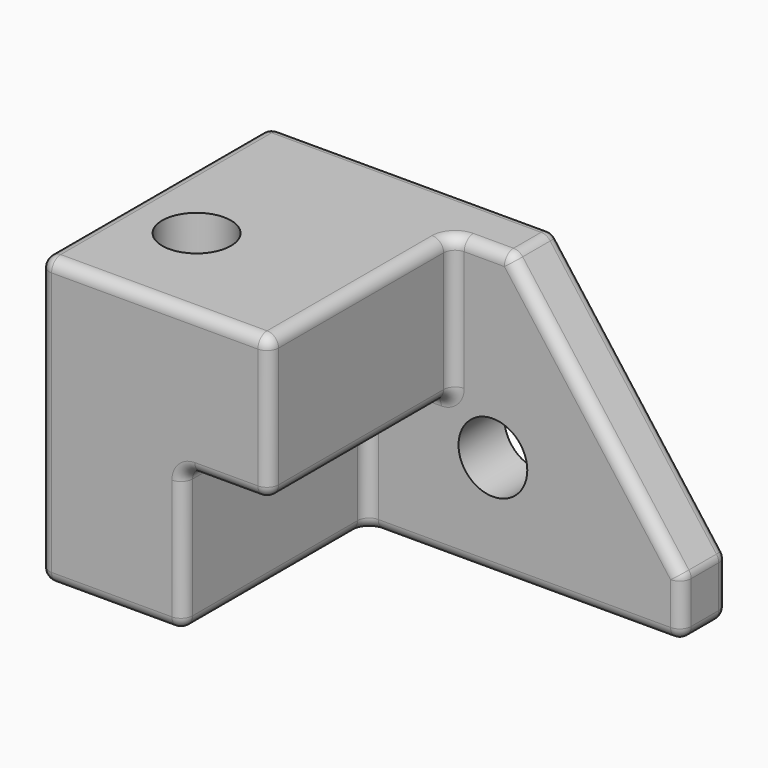
from build123d import *

# Parameters (mm, degrees)
F0_W     = 203.2
F0_H     = 127
F1_DEPTH = 127
F3_DEPTH = 101.6
F4_SIZE2 = 101.6
F4_SIZE  = 76.2
F5_R     = 5.08
F6_R     = 15.24
F7_DEPTH = 25.4
F8_R     = 15.24
F9_DEPTH = 127


with BuildPart() as f1:
    # F0 (on Front) → F1 (new body)
    with BuildSketch(Plane.XZ):
        with Locations((-4.1312798858, 3.5229725738)):
            Rectangle(F0_W, F0_H)
    extrude(amount=F1_DEPTH)

    # F2 (on face) → F3 (cut)
    with BuildSketch(Plane.XZ.offset(127)):
        Polygon((97.4687201142, 67.0229725738), (-4.1312798858, 67.0229725738), (-4.1312798858, 3.5229718778), (-42.2312798858, 3.5229718778), (-42.2312798858, -59.9770274262), (97.4687201142, -59.9770274262), align=None)
    extrude(amount=-F3_DEPTH, mode=Mode.SUBTRACT)

    # F4
    f4_edges = [f1.edges().sort_by_distance(p)[0] for p in [
        (97.46872, -12.7, 67.022973),
    ]]
    f4_side = f1.faces().sort_by_distance((-37.997947, -55.033333, 67.022973))[0]
    chamfer(f4_edges, length=F4_SIZE, length2=F4_SIZE2, reference=f4_side)

    # F5
    f5_edges = [f1.edges().sort_by_distance(p)[0] for p in [
        (-42.23128, 0, 67.022973),
        (21.26872, -12.7, 67.022973),
        (-105.73128, -63.5, 67.022973),
        (8.56872, -25.4, 67.022973),
        (-54.93128, -127, 67.022973),
        (-4.13128, -76.2, 67.022973),
        (-73.98128, -127, -59.977027),
        (-105.73128, -127, 3.522973),
        (-4.13128, -127, 35.272972),
        (-23.18128, -127, 3.522972),
        (-42.23128, -127, -28.227028),
        (-4.13128, -76.2, 3.522972),
        (-4.13128, -25.4, 35.272972),
        (-42.23128, -76.2, 3.522972),
        (-42.23128, -76.2, -59.977027),
        (-42.23128, -25.4, -28.227028),
        (97.46872, -25.4, -47.277027),
        (59.36872, -25.4, 16.222973),
        (27.61872, -25.4, -59.977027),
        (-23.18128, -25.4, 3.522972),
        (59.36872, 0, 16.222973),
        (97.46872, -12.7, -34.577027),
        (97.46872, 0, -47.277027),
        (97.46872, -12.7, -59.977027),
        (-105.73128, -63.5, -59.977027),
        (-105.73128, 0, 3.522973),
        (-4.13128, 0, -59.977027),
    ]]
    fillet(f5_edges, radius=F5_R)

    # F6 (on face) → F7 (cut)
    with BuildSketch(Plane.XZ.offset(25.4)):
        with Locations((13.6487201142, -14.2570274262)):
            Circle(F6_R)
    extrude(amount=-F7_DEPTH, mode=Mode.SUBTRACT)

    # F8 (on face) → F9 (cut)
    with BuildSketch(Plane.XY.offset(67.0229725738)):
        with Locations((-73.9812798858, -80.01)):
            Circle(F8_R)
    extrude(amount=-F9_DEPTH, mode=Mode.SUBTRACT)


solid = f1.part
